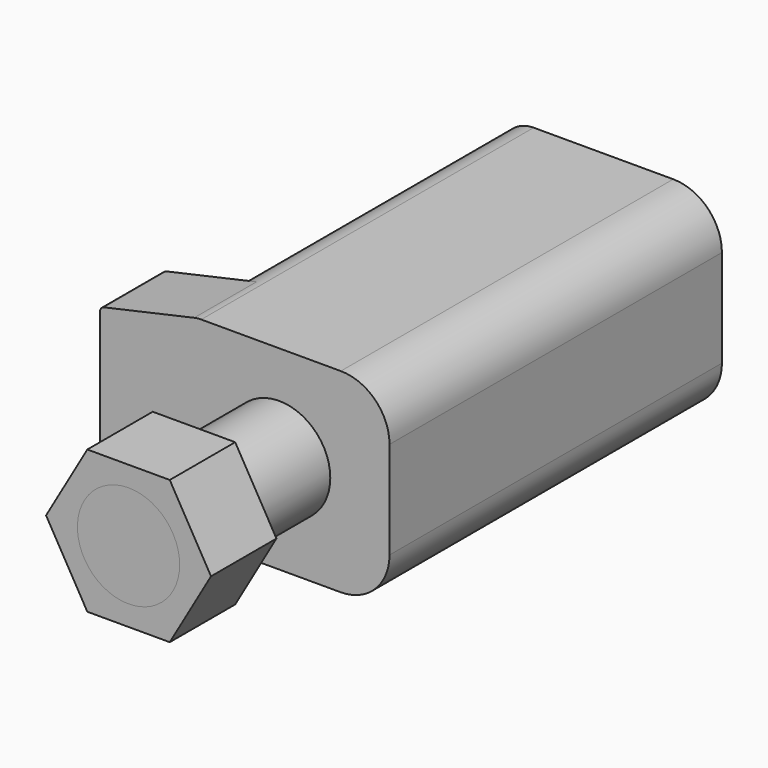
from build123d import *

# Parameters (mm, degrees)
F1_DEPTH = 40.64
F2_R     = 5
F3_DEPTH = 18.415
F5_DEPTH = 7.62
F6_R     = 5
F7_DEPTH = 8


with BuildPart() as f1:
    # F0 (on Front) → F1 (new body)
    with BuildSketch(Plane.XZ):
        with BuildLine():
            Line((16.8275, 0), (3.175, 0))
            ThreePointArc((3.175, 0), (0.9299359697, -0.9299359697), (0, -3.175))
            Line((0, -3.175), (0, -15.875))
            ThreePointArc((0, -15.875), (0.9299359697, -18.1200640303), (3.175, -19.05))
            Line((3.175, -19.05), (16.8275, -19.05))
            ThreePointArc((16.8275, -19.05), (20.1950960454, -17.6550960454), (21.59, -14.2875))
            Line((21.59, -14.2875), (21.59, -4.7625))
            ThreePointArc((21.59, -4.7625), (20.1950960454, -1.3949039546), (16.8275, 0))
        make_face()
    extrude(amount=-F1_DEPTH)

    # F2 (on face) → F3 (join)
    with BuildSketch(Plane.XZ):
        with Locations((10.795, -9.525)):
            Circle(F2_R)
    extrude(amount=F3_DEPTH)

    # F4 (on face) → F5 (join)
    with BuildSketch(Plane.XZ):
        with BuildLine():
            ThreePointArc((0, -3.175), (0.6974430438, -1.1894682001), (2.4833615928, -0.0762484266))
            Line((2.4833615928, -0.0762484266), (-6.3336621452, -2.0441997483))
            ThreePointArc((-6.3336621452, -2.0441997483), (-6.619409113, -2.222314912), (-6.731, -2.54))
            Line((-6.731, -2.54), (-6.731, -16.51))
            ThreePointArc((-6.731, -16.51), (-6.619409113, -16.827685088), (-6.3336621452, -17.0058002517))
            Line((-6.3336621452, -17.0058002517), (2.4833615928, -18.9737515734))
            ThreePointArc((2.4833615928, -18.9737515734), (0.6974430438, -17.8605317999), (0, -15.875))
            Line((0, -15.875), (0, -3.175))
        make_face()
    extrude(amount=-F5_DEPTH)


with BuildPart() as f7:
    # F6 (on face) → F7 (new body)
    with BuildSketch(Plane.XZ.offset(18.415)):
        Polygon((14.8277916303, -2.54), (6.7622083697, -2.54), (2.7294167394, -9.525), (6.7622083697, -16.51), (14.8277916303, -16.51), (18.8605832606, -9.525), align=None)
        with Locations((10.795, -9.525)):
            Circle(F6_R, mode=Mode.SUBTRACT)
    extrude(amount=-F7_DEPTH)


solid = Compound([f1.part, f7.part])
